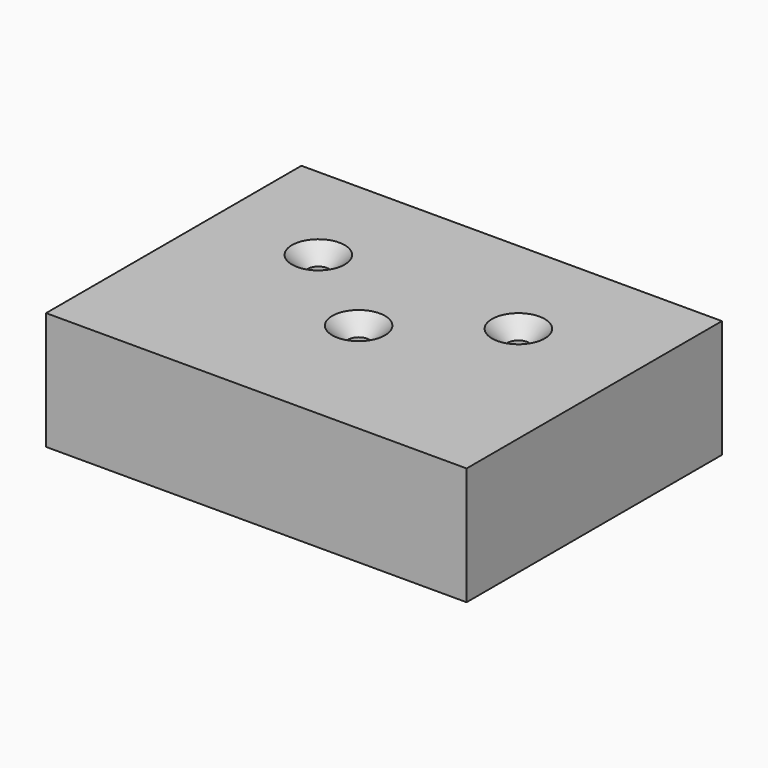
from build123d import *

# Parameters (mm, degrees)
F0_W           = 53.5424593836
F0_H           = 40.6342418864
F1_DEPTH       = 15
F3_D           = 2.7
F3_DEPTH       = 10
F3_CSINK_D     = 6.72
F3_CSINK_ANGLE = 90
F3_TIP         = 0.8111618357


with BuildPart() as f1:
    # F0 (on Top) → F1 (new body)
    with BuildSketch(Plane.XY):
        with Locations((6.5348921344, -6.3900067471)):
            Rectangle(F0_W, F0_H)
    extrude(amount=F1_DEPTH)

    # F3
    with Locations(Plane.XY.offset(15)):
        with Locations((-6.9363857619, 0), (5.707198754, -9.3936529011), (18.5309629887, 0)):
            CounterSinkHole(F3_D / 2, F3_CSINK_D / 2, depth=F3_DEPTH, counter_sink_angle=F3_CSINK_ANGLE)
            with Locations((0, 0, -(F3_DEPTH + F3_TIP / 2))):  # 118° drill point
                Cone(0, F3_D / 2, F3_TIP, mode=Mode.SUBTRACT)


solid = f1.part
